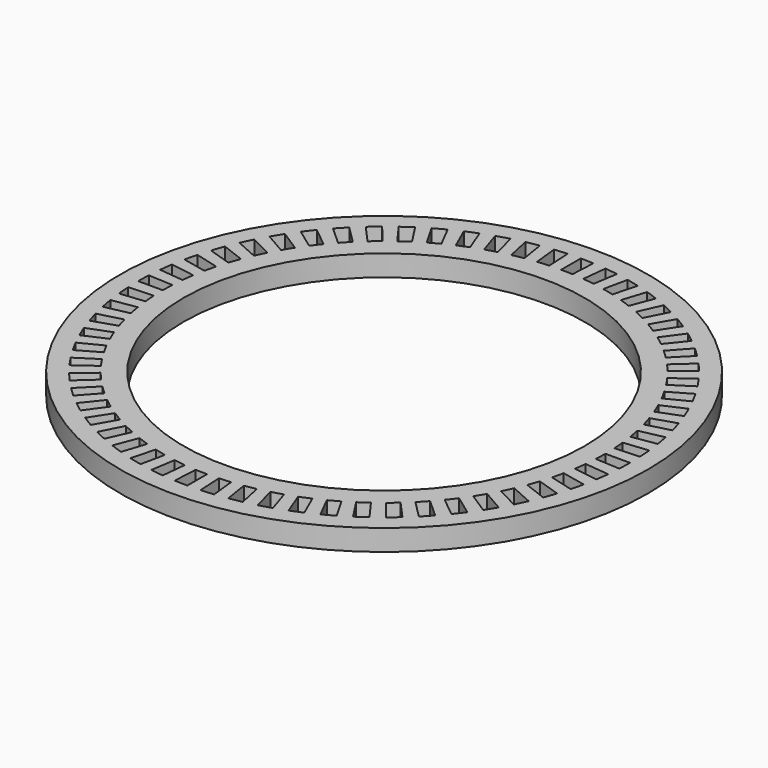
from build123d import *

# Parameters (mm, degrees)
F0_R     = 50
F1_DEPTH = 10
F2_R     = 125
F2_R_2   = 40.44952
F3_DEPTH = 10
F5_DEPTH = 25
F6_R     = 95
F7_DEPTH = 25


with BuildPart() as f1:
    # F0 (on Top) → F1 (new body)
    with BuildSketch(Plane.XY):
        Circle(F0_R)
        Polygon((-10, 30), (0, 30), (10, 30), (10, 10), (30, 10), (30, 0), (30, -10), (10, -10), (10, -30), (0, -30), (-10, -30), (-10, -10), (-30, -10), (-30, 0), (-30, 10), (-10, 10), align=None, mode=Mode.SUBTRACT)
    extrude(amount=F1_DEPTH)

    # F2 (on face) → F3 (join)
    with BuildSketch(Plane.XY.offset(10)):
        Circle(F2_R)
        Circle(F2_R_2, mode=Mode.SUBTRACT)
    extrude(amount=-F3_DEPTH)

    # F4 (on face) → F5 (cut)
    with BuildSketch(Plane.XY.offset(10)):
        with BuildLine():
            Line((0, 116.456337), (0, 104.802647))
            ThreePointArc((0, 104.802647), (2.743413, 104.766734), (5.484947, 104.659019))
            Line((5.484947, 104.659019), (6.094854, 116.296738))
            ThreePointArc((6.094854, 116.296738), (3.048472, 116.416431), (0, 116.456337))
        make_face()
        with BuildLine():
            ThreePointArc((-10.95486, 104.228527), (-8.222721, 104.479576), (-5.484947, 104.659019))
            Line((-5.484947, 104.659019), (-6.094854, 116.296738))
            ThreePointArc((-6.094854, 116.296738), (-9.137059, 116.097341), (-12.173002, 115.818377))
            Line((-12.173002, 115.818377), (-10.95486, 104.228527))
        make_face()
        with BuildLine():
            ThreePointArc((-21.789696, 102.512458), (-19.098765, 103.047717), (-16.394746, 103.512353))
            Line((-16.394746, 103.512353), (-18.217785, 115.022567))
            ThreePointArc((-18.217785, 115.022567), (-21.222482, 114.506265), (-24.212634, 113.911487))
            Line((-24.212634, 113.911487), (-21.789696, 102.512458))
        make_face()
        with BuildLine():
            ThreePointArc((-32.385799, 99.673241), (-29.76556, 100.486846), (-27.124921, 101.231584))
            Line((-27.124921, 101.231584), (-30.141118, 112.488184))
            ThreePointArc((-30.141118, 112.488184), (-33.075387, 111.660634), (-35.986987, 110.756558))
            Line((-35.986987, 110.756558), (-32.385799, 99.673241))
        make_face()
        with BuildLine():
            ThreePointArc((-42.627077, 95.741982), (-40.106237, 96.825021), (-37.55791, 97.8417))
            Line((-37.55791, 97.8417), (-41.734219, 108.721357))
            ThreePointArc((-41.734219, 108.721357), (-44.565911, 107.591626), (-47.36706, 106.388158))
            Line((-47.36706, 106.388158), (-42.627077, 95.741982))
        make_face()
        with BuildLine():
            ThreePointArc((-52.401324, 90.761755), (-50.007501, 92.10236), (-47.579406, 93.379842))
            Line((-47.579406, 93.379842), (-52.870071, 103.763356))
            ThreePointArc((-52.870071, 103.763356), (-55.568162, 102.343822), (-58.228169, 100.854147))
            Line((-58.228169, 100.854147), (-52.401324, 90.761755))
        make_face()
        with BuildLine():
            ThreePointArc((-61.60145, 84.787123), (-59.360873, 86.370606), (-57.079613, 87.894896))
            Line((-57.079613, 87.894896), (-63.426667, 97.668503))
            ThreePointArc((-63.426667, 97.668503), (-65.961596, 95.974717), (-68.451318, 94.215156))
            Line((-68.451318, 94.215156), (-61.60145, 84.787123))
        make_face()
        with BuildLine():
            ThreePointArc((-70.126659, 77.883545), (-68.063875, 79.692558), (-65.954443, 81.446954))
            Line((-65.954443, 81.446954), (-73.288348, 90.503572))
            ThreePointArc((-73.288348, 90.503572), (-75.632341, 88.554094), (-77.9245, 86.543924))
            Line((-77.9245, 86.543924), (-70.126659, 77.883545))
        make_face()
        with BuildLine():
            ThreePointArc((-77.883545, 70.126659), (-76.021154, 72.141382), (-74.106663, 74.106663))
            Line((-74.106663, 74.106663), (-82.347066, 82.347066))
            ThreePointArc((-82.347066, 82.347066), (-84.474442, 80.163253), (-86.543924, 77.9245))
            Line((-86.543924, 77.9245), (-77.883545, 70.126659))
        make_face()
        with BuildLine():
            ThreePointArc((-84.787123, 61.60145), (-83.14553, 63.799809), (-81.446954, 65.954443))
            Line((-81.446954, 65.954443), (-90.503572, 73.288348))
            ThreePointArc((-90.503572, 73.288348), (-92.391024, 70.894126), (-94.215156, 68.451318))
            Line((-94.215156, 68.451318), (-84.787123, 61.60145))
        make_face()
        with BuildLine():
            ThreePointArc((-90.761755, 52.401324), (-89.358946, 54.759233), (-87.894896, 57.079613))
            Line((-87.894896, 57.079613), (-97.668503, 63.426667))
            ThreePointArc((-97.668503, 63.426667), (-99.295351, 60.848269), (-100.854147, 58.228169))
            Line((-100.854147, 58.228169), (-90.761755, 52.401324))
        make_face()
        with BuildLine():
            ThreePointArc((-95.741982, 42.627077), (-94.593327, 45.118703), (-93.379842, 47.579406))
            Line((-93.379842, 47.579406), (-103.763356, 52.870071))
            ThreePointArc((-103.763356, 52.870071), (-105.111776, 50.135745), (-106.388158, 47.36706))
            Line((-106.388158, 47.36706), (-95.741982, 42.627077))
        make_face()
        with BuildLine():
            ThreePointArc((-99.673241, 32.385799), (-98.791324, 34.983843), (-97.8417, 37.55791))
            Line((-97.8417, 37.55791), (-108.721357, 41.734219))
            ThreePointArc((-108.721357, 41.734219), (-109.776575, 38.873924), (-110.756558, 35.986987))
            Line((-110.756558, 35.986987), (-99.673241, 32.385799))
        make_face()
        with BuildLine():
            ThreePointArc((-102.512458, 21.789696), (-101.906942, 24.465692), (-101.231584, 27.124921))
            Line((-101.231584, 27.124921), (-112.488184, 30.141118))
            ThreePointArc((-112.488184, 30.141118), (-113.238639, 27.186192), (-113.911487, 24.212634))
            Line((-113.911487, 24.212634), (-102.512458, 21.789696))
        make_face()
        with BuildLine():
            ThreePointArc((-104.228527, 10.95486), (-103.906046, 13.67949), (-103.512353, 16.394746))
            Line((-103.512353, 16.394746), (-115.022567, 18.217785))
            ThreePointArc((-115.022567, 18.217785), (-115.460037, 15.200602), (-115.818377, 12.173002))
            Line((-115.818377, 12.173002), (-104.228527, 10.95486))
        make_face()
        with BuildLine():
            ThreePointArc((-104.802647, 0), (-104.766734, 2.743413), (-104.659019, 5.484947))
            Line((-104.659019, 5.484947), (-116.296738, 6.094854))
            ThreePointArc((-116.296738, 6.094854), (-116.416431, 3.048472), (-116.456337, 0))
            Line((-116.456337, 0), (-104.802647, 0))
        make_face()
        with BuildLine():
            ThreePointArc((-104.228527, -10.95486), (-104.479576, -8.222721), (-104.659019, -5.484947))
            Line((-104.659019, -5.484947), (-116.296738, -6.094854))
            ThreePointArc((-116.296738, -6.094854), (-116.097341, -9.137059), (-115.818377, -12.173002))
            Line((-115.818377, -12.173002), (-104.228527, -10.95486))
        make_face()
        with BuildLine():
            ThreePointArc((-102.512458, -21.789696), (-103.047717, -19.098765), (-103.512353, -16.394746))
            Line((-103.512353, -16.394746), (-115.022567, -18.217785))
            ThreePointArc((-115.022567, -18.217785), (-114.506265, -21.222482), (-113.911487, -24.212634))
            Line((-113.911487, -24.212634), (-102.512458, -21.789696))
        make_face()
        with BuildLine():
            ThreePointArc((-99.673241, -32.385799), (-100.486846, -29.76556), (-101.231584, -27.124921))
            Line((-101.231584, -27.124921), (-112.488184, -30.141118))
            ThreePointArc((-112.488184, -30.141118), (-111.660634, -33.075387), (-110.756558, -35.986987))
            Line((-110.756558, -35.986987), (-99.673241, -32.385799))
        make_face()
        with BuildLine():
            ThreePointArc((-95.741982, -42.627077), (-96.825021, -40.106237), (-97.8417, -37.55791))
            Line((-97.8417, -37.55791), (-108.721357, -41.734219))
            ThreePointArc((-108.721357, -41.734219), (-107.591626, -44.565911), (-106.388158, -47.36706))
            Line((-106.388158, -47.36706), (-95.741982, -42.627077))
        make_face()
        with BuildLine():
            ThreePointArc((-90.761755, -52.401324), (-92.10236, -50.007501), (-93.379842, -47.579406))
            Line((-93.379842, -47.579406), (-103.763356, -52.870071))
            ThreePointArc((-103.763356, -52.870071), (-102.343822, -55.568162), (-100.854147, -58.228169))
            Line((-100.854147, -58.228169), (-90.761755, -52.401324))
        make_face()
        with BuildLine():
            ThreePointArc((-84.787123, -61.60145), (-86.370606, -59.360873), (-87.894896, -57.079613))
            Line((-87.894896, -57.079613), (-97.668503, -63.426667))
            ThreePointArc((-97.668503, -63.426667), (-95.974717, -65.961596), (-94.215156, -68.451318))
            Line((-94.215156, -68.451318), (-84.787123, -61.60145))
        make_face()
        with BuildLine():
            ThreePointArc((-77.883545, -70.126659), (-79.692558, -68.063875), (-81.446954, -65.954443))
            Line((-81.446954, -65.954443), (-90.503572, -73.288348))
            ThreePointArc((-90.503572, -73.288348), (-88.554094, -75.632341), (-86.543924, -77.9245))
            Line((-86.543924, -77.9245), (-77.883545, -70.126659))
        make_face()
        with BuildLine():
            ThreePointArc((-70.126659, -77.883545), (-72.141382, -76.021154), (-74.106663, -74.106663))
            Line((-74.106663, -74.106663), (-82.347066, -82.347066))
            ThreePointArc((-82.347066, -82.347066), (-80.163253, -84.474442), (-77.9245, -86.543924))
            Line((-77.9245, -86.543924), (-70.126659, -77.883545))
        make_face()
        with BuildLine():
            ThreePointArc((-61.60145, -84.787123), (-63.799809, -83.14553), (-65.954443, -81.446954))
            Line((-65.954443, -81.446954), (-73.288348, -90.503572))
            ThreePointArc((-73.288348, -90.503572), (-70.894126, -92.391024), (-68.451318, -94.215156))
            Line((-68.451318, -94.215156), (-61.60145, -84.787123))
        make_face()
        with BuildLine():
            ThreePointArc((-52.401324, -90.761755), (-54.759233, -89.358946), (-57.079613, -87.894896))
            Line((-57.079613, -87.894896), (-63.426667, -97.668503))
            ThreePointArc((-63.426667, -97.668503), (-60.848269, -99.295351), (-58.228169, -100.854147))
            Line((-58.228169, -100.854147), (-52.401324, -90.761755))
        make_face()
        with BuildLine():
            ThreePointArc((-42.627077, -95.741982), (-45.118703, -94.593327), (-47.579406, -93.379842))
            Line((-47.579406, -93.379842), (-52.870071, -103.763356))
            ThreePointArc((-52.870071, -103.763356), (-50.135745, -105.111776), (-47.36706, -106.388158))
            Line((-47.36706, -106.388158), (-42.627077, -95.741982))
        make_face()
        with BuildLine():
            ThreePointArc((-32.385799, -99.673241), (-34.983843, -98.791324), (-37.55791, -97.8417))
            Line((-37.55791, -97.8417), (-41.734219, -108.721357))
            ThreePointArc((-41.734219, -108.721357), (-38.873924, -109.776575), (-35.986987, -110.756558))
            Line((-35.986987, -110.756558), (-32.385799, -99.673241))
        make_face()
        with BuildLine():
            ThreePointArc((-21.789696, -102.512458), (-24.465692, -101.906942), (-27.124921, -101.231584))
            Line((-27.124921, -101.231584), (-30.141118, -112.488184))
            ThreePointArc((-30.141118, -112.488184), (-27.186192, -113.238639), (-24.212634, -113.911487))
            Line((-24.212634, -113.911487), (-21.789696, -102.512458))
        make_face()
        with BuildLine():
            ThreePointArc((-10.95486, -104.228527), (-13.67949, -103.906046), (-16.394746, -103.512353))
            Line((-16.394746, -103.512353), (-18.217785, -115.022567))
            ThreePointArc((-18.217785, -115.022567), (-15.200602, -115.460037), (-12.173002, -115.818377))
            Line((-12.173002, -115.818377), (-10.95486, -104.228527))
        make_face()
        with BuildLine():
            ThreePointArc((0, -104.802647), (-2.743413, -104.766734), (-5.484947, -104.659019))
            Line((-5.484947, -104.659019), (-6.094854, -116.296738))
            ThreePointArc((-6.094854, -116.296738), (-3.048472, -116.416431), (0, -116.456337))
            Line((0, -116.456337), (0, -104.802647))
        make_face()
        with BuildLine():
            ThreePointArc((10.95486, -104.228527), (8.222721, -104.479576), (5.484947, -104.659019))
            Line((5.484947, -104.659019), (6.094854, -116.296738))
            ThreePointArc((6.094854, -116.296738), (9.137059, -116.097341), (12.173002, -115.818377))
            Line((12.173002, -115.818377), (10.95486, -104.228527))
        make_face()
        with BuildLine():
            ThreePointArc((21.789696, -102.512458), (19.098765, -103.047717), (16.394746, -103.512353))
            Line((16.394746, -103.512353), (18.217785, -115.022567))
            ThreePointArc((18.217785, -115.022567), (21.222482, -114.506265), (24.212634, -113.911487))
            Line((24.212634, -113.911487), (21.789696, -102.512458))
        make_face()
        with BuildLine():
            ThreePointArc((32.385799, -99.673241), (29.76556, -100.486846), (27.124921, -101.231584))
            Line((27.124921, -101.231584), (30.141118, -112.488184))
            ThreePointArc((30.141118, -112.488184), (33.075387, -111.660634), (35.986987, -110.756558))
            Line((35.986987, -110.756558), (32.385799, -99.673241))
        make_face()
        with BuildLine():
            ThreePointArc((42.627077, -95.741982), (40.106237, -96.825021), (37.55791, -97.8417))
            Line((37.55791, -97.8417), (41.734219, -108.721357))
            ThreePointArc((41.734219, -108.721357), (44.565911, -107.591626), (47.36706, -106.388158))
            Line((47.36706, -106.388158), (42.627077, -95.741982))
        make_face()
        with BuildLine():
            ThreePointArc((52.401324, -90.761755), (50.007501, -92.10236), (47.579406, -93.379842))
            Line((47.579406, -93.379842), (52.870071, -103.763356))
            ThreePointArc((52.870071, -103.763356), (55.568162, -102.343822), (58.228169, -100.854147))
            Line((58.228169, -100.854147), (52.401324, -90.761755))
        make_face()
        with BuildLine():
            ThreePointArc((61.60145, -84.787123), (59.360873, -86.370606), (57.079613, -87.894896))
            Line((57.079613, -87.894896), (63.426667, -97.668503))
            ThreePointArc((63.426667, -97.668503), (65.961596, -95.974717), (68.451318, -94.215156))
            Line((68.451318, -94.215156), (61.60145, -84.787123))
        make_face()
        with BuildLine():
            ThreePointArc((70.126659, -77.883545), (68.063875, -79.692558), (65.954443, -81.446954))
            Line((65.954443, -81.446954), (73.288348, -90.503572))
            ThreePointArc((73.288348, -90.503572), (75.632341, -88.554094), (77.9245, -86.543924))
            Line((77.9245, -86.543924), (70.126659, -77.883545))
        make_face()
        with BuildLine():
            ThreePointArc((77.883545, -70.126659), (76.021154, -72.141382), (74.106663, -74.106663))
            Line((74.106663, -74.106663), (82.347066, -82.347066))
            ThreePointArc((82.347066, -82.347066), (84.474442, -80.163253), (86.543924, -77.9245))
            Line((86.543924, -77.9245), (77.883545, -70.126659))
        make_face()
        with BuildLine():
            ThreePointArc((84.787123, -61.60145), (83.14553, -63.799809), (81.446954, -65.954443))
            Line((81.446954, -65.954443), (90.503572, -73.288348))
            ThreePointArc((90.503572, -73.288348), (92.391024, -70.894126), (94.215156, -68.451318))
            Line((94.215156, -68.451318), (84.787123, -61.60145))
        make_face()
        with BuildLine():
            ThreePointArc((90.761755, -52.401324), (89.358946, -54.759233), (87.894896, -57.079613))
            Line((87.894896, -57.079613), (97.668503, -63.426667))
            ThreePointArc((97.668503, -63.426667), (99.295351, -60.848269), (100.854147, -58.228169))
            Line((100.854147, -58.228169), (90.761755, -52.401324))
        make_face()
        with BuildLine():
            ThreePointArc((95.741982, -42.627077), (94.593327, -45.118703), (93.379842, -47.579406))
            Line((93.379842, -47.579406), (103.763356, -52.870071))
            ThreePointArc((103.763356, -52.870071), (105.111776, -50.135745), (106.388158, -47.36706))
            Line((106.388158, -47.36706), (95.741982, -42.627077))
        make_face()
        with BuildLine():
            ThreePointArc((99.673241, -32.385799), (98.791324, -34.983843), (97.8417, -37.55791))
            Line((97.8417, -37.55791), (108.721357, -41.734219))
            ThreePointArc((108.721357, -41.734219), (109.776575, -38.873924), (110.756558, -35.986987))
            Line((110.756558, -35.986987), (99.673241, -32.385799))
        make_face()
        with BuildLine():
            ThreePointArc((102.512458, -21.789696), (101.906942, -24.465692), (101.231584, -27.124921))
            Line((101.231584, -27.124921), (112.488184, -30.141118))
            ThreePointArc((112.488184, -30.141118), (113.238639, -27.186192), (113.911487, -24.212634))
            Line((113.911487, -24.212634), (102.512458, -21.789696))
        make_face()
        with BuildLine():
            ThreePointArc((104.228527, -10.95486), (103.906046, -13.67949), (103.512353, -16.394746))
            Line((103.512353, -16.394746), (115.022567, -18.217785))
            ThreePointArc((115.022567, -18.217785), (115.460037, -15.200602), (115.818377, -12.173002))
            Line((115.818377, -12.173002), (104.228527, -10.95486))
        make_face()
        with BuildLine():
            ThreePointArc((104.802647, 0), (104.766734, -2.743413), (104.659019, -5.484947))
            Line((104.659019, -5.484947), (116.296738, -6.094854))
            ThreePointArc((116.296738, -6.094854), (116.416431, -3.048472), (116.456337, 0))
            Line((116.456337, 0), (104.802647, 0))
        make_face()
        with BuildLine():
            ThreePointArc((104.228527, 10.95486), (104.479576, 8.222721), (104.659019, 5.484947))
            Line((104.659019, 5.484947), (116.296738, 6.094854))
            ThreePointArc((116.296738, 6.094854), (116.097341, 9.137059), (115.818377, 12.173002))
            Line((115.818377, 12.173002), (104.228527, 10.95486))
        make_face()
        with BuildLine():
            ThreePointArc((102.512458, 21.789696), (103.047717, 19.098765), (103.512353, 16.394746))
            Line((103.512353, 16.394746), (115.022567, 18.217785))
            ThreePointArc((115.022567, 18.217785), (114.506265, 21.222482), (113.911487, 24.212634))
            Line((113.911487, 24.212634), (102.512458, 21.789696))
        make_face()
        with BuildLine():
            ThreePointArc((99.673241, 32.385799), (100.486846, 29.76556), (101.231584, 27.124921))
            Line((101.231584, 27.124921), (112.488184, 30.141118))
            ThreePointArc((112.488184, 30.141118), (111.660634, 33.075387), (110.756558, 35.986987))
            Line((110.756558, 35.986987), (99.673241, 32.385799))
        make_face()
        with BuildLine():
            ThreePointArc((95.741982, 42.627077), (96.825021, 40.106237), (97.8417, 37.55791))
            Line((97.8417, 37.55791), (108.721357, 41.734219))
            ThreePointArc((108.721357, 41.734219), (107.591626, 44.565911), (106.388158, 47.36706))
            Line((106.388158, 47.36706), (95.741982, 42.627077))
        make_face()
        with BuildLine():
            ThreePointArc((90.761755, 52.401324), (92.10236, 50.007501), (93.379842, 47.579406))
            Line((93.379842, 47.579406), (103.763356, 52.870071))
            ThreePointArc((103.763356, 52.870071), (102.343822, 55.568162), (100.854147, 58.228169))
            Line((100.854147, 58.228169), (90.761755, 52.401324))
        make_face()
        with BuildLine():
            ThreePointArc((84.787123, 61.60145), (86.370606, 59.360873), (87.894896, 57.079613))
            Line((87.894896, 57.079613), (97.668503, 63.426667))
            ThreePointArc((97.668503, 63.426667), (95.974717, 65.961596), (94.215156, 68.451318))
            Line((94.215156, 68.451318), (84.787123, 61.60145))
        make_face()
        with BuildLine():
            ThreePointArc((77.883545, 70.126659), (79.692558, 68.063875), (81.446954, 65.954443))
            Line((81.446954, 65.954443), (90.503572, 73.288348))
            ThreePointArc((90.503572, 73.288348), (88.554094, 75.632341), (86.543924, 77.9245))
            Line((86.543924, 77.9245), (77.883545, 70.126659))
        make_face()
        with BuildLine():
            ThreePointArc((70.126659, 77.883545), (72.141382, 76.021154), (74.106663, 74.106663))
            Line((74.106663, 74.106663), (82.347066, 82.347066))
            ThreePointArc((82.347066, 82.347066), (80.163253, 84.474442), (77.9245, 86.543924))
            Line((77.9245, 86.543924), (70.126659, 77.883545))
        make_face()
        with BuildLine():
            ThreePointArc((61.60145, 84.787123), (63.799809, 83.14553), (65.954443, 81.446954))
            Line((65.954443, 81.446954), (73.288348, 90.503572))
            ThreePointArc((73.288348, 90.503572), (70.894126, 92.391024), (68.451318, 94.215156))
            Line((68.451318, 94.215156), (61.60145, 84.787123))
        make_face()
        with BuildLine():
            ThreePointArc((52.401324, 90.761755), (54.759233, 89.358946), (57.079613, 87.894896))
            Line((57.079613, 87.894896), (63.426667, 97.668503))
            ThreePointArc((63.426667, 97.668503), (60.848269, 99.295351), (58.228169, 100.854147))
            Line((58.228169, 100.854147), (52.401324, 90.761755))
        make_face()
        with BuildLine():
            ThreePointArc((42.627077, 95.741982), (45.118703, 94.593327), (47.579406, 93.379842))
            Line((47.579406, 93.379842), (52.870071, 103.763356))
            ThreePointArc((52.870071, 103.763356), (50.135745, 105.111776), (47.36706, 106.388158))
            Line((47.36706, 106.388158), (42.627077, 95.741982))
        make_face()
        with BuildLine():
            ThreePointArc((32.385799, 99.673241), (34.983843, 98.791324), (37.55791, 97.8417))
            Line((37.55791, 97.8417), (41.734219, 108.721357))
            ThreePointArc((41.734219, 108.721357), (38.873924, 109.776575), (35.986987, 110.756558))
            Line((35.986987, 110.756558), (32.385799, 99.673241))
        make_face()
        with BuildLine():
            ThreePointArc((21.789696, 102.512458), (24.465692, 101.906942), (27.124921, 101.231584))
            Line((27.124921, 101.231584), (30.141118, 112.488184))
            ThreePointArc((30.141118, 112.488184), (27.186192, 113.238639), (24.212634, 113.911487))
            Line((24.212634, 113.911487), (21.789696, 102.512458))
        make_face()
        with BuildLine():
            ThreePointArc((10.95486, 104.228527), (13.67949, 103.906046), (16.394746, 103.512353))
            Line((16.394746, 103.512353), (18.217785, 115.022567))
            ThreePointArc((18.217785, 115.022567), (15.200602, 115.460037), (12.173002, 115.818377))
            Line((12.173002, 115.818377), (10.95486, 104.228527))
        make_face()
    extrude(amount=-F5_DEPTH, mode=Mode.SUBTRACT)

    # F6 (on face) → F7 (cut)
    with BuildSketch(Plane.XY.offset(10)):
        Circle(F6_R)
    extrude(amount=-F7_DEPTH, mode=Mode.SUBTRACT)


solid = f1.part
